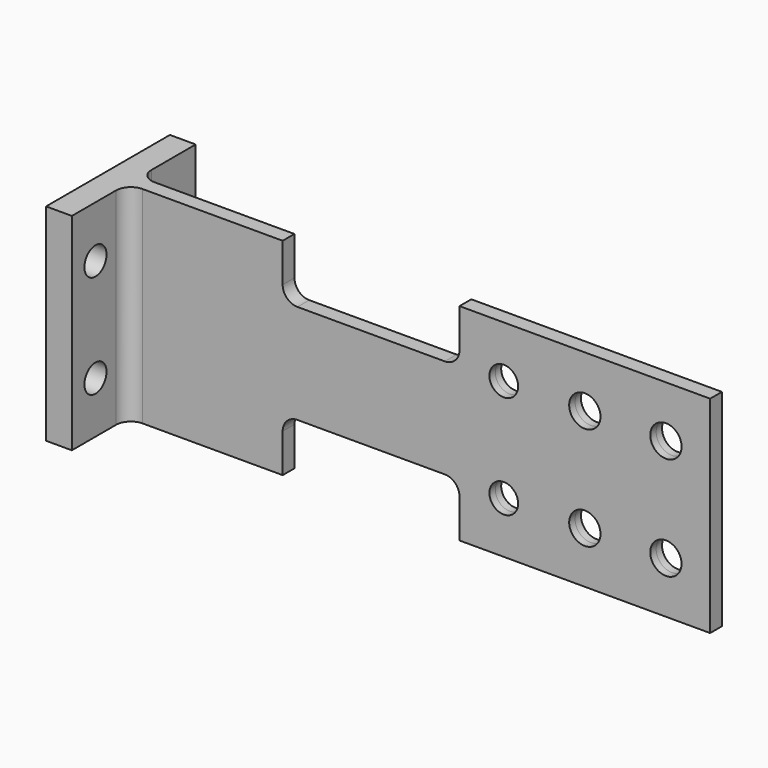
from build123d import *

# Parameters (mm, degrees)
F0_R     = 12.372008059
F0_R_2   = 13.49375
F1_DEPTH = 6.35
F2_DEPTH = 6.35
F3_R     = 11.90625
F4_DEPTH = 22.225
F5_R     = 12.7


with BuildPart() as f1:
    # F0 (on Front) → F1 (new body)
    with BuildSketch(Plane.XZ):
        with BuildLine():
            Line((0, 88.9), (0, 0))
            Line((0, 0), (0, -88.9))
            Line((0, -88.9), (155.575, -88.9))
            Line((155.575, -88.9), (155.575, -55.5625))
            ThreePointArc((155.575, -55.5625), (159.2947438789, -46.5822438789), (168.275, -42.8625))
            Line((168.275, -42.8625), (295.275, -42.8625))
            ThreePointArc((295.275, -42.8625), (304.2552561211, -46.5822438789), (307.975, -55.5625))
            Line((307.975, -55.5625), (307.975, -88.9))
            Line((307.975, -88.9), (523.875, -88.9))
            Line((523.875, -88.9), (523.875, 0))
            Line((523.875, 0), (523.875, 88.9))
            Line((523.875, 88.9), (307.975, 88.9))
            Line((307.975, 88.9), (307.975, 55.5625))
            ThreePointArc((307.975, 55.5625), (304.2552561211, 46.5822438789), (295.275, 42.8625))
            Line((295.275, 42.8625), (168.275, 42.8625))
            ThreePointArc((168.275, 42.8625), (159.2947438789, 46.5822438789), (155.575, 55.5625))
            Line((155.575, 55.5625), (155.575, 88.9))
            Line((155.575, 88.9), (0, 88.9))
        make_face()
        with Locations((346.075, -44.45)):
            Circle(F0_R, mode=Mode.SUBTRACT)
        with Locations((415.925, -44.45)):
            Circle(F0_R_2, mode=Mode.SUBTRACT)
        with Locations((485.775, -44.45)):
            Circle(F0_R_2, mode=Mode.SUBTRACT)
        with Locations((346.075, 44.45)):
            Circle(F0_R, mode=Mode.SUBTRACT)
        with Locations((415.925, 44.45)):
            Circle(F0_R_2, mode=Mode.SUBTRACT)
        with Locations((485.775, 44.45)):
            Circle(F0_R_2, mode=Mode.SUBTRACT)
    extrude(amount=F1_DEPTH)

    # F2 (add): a face of the model
    f2_faces = [f1.faces().sort_by_distance(p)[0] for p in [
        (260.6993813627, 0, 0),
    ]]
    extrude(f2_faces, amount=F2_DEPTH)

    # F3 (on Right) → F4 (join)
    with BuildSketch(Plane.YZ):
        Polygon((66.675, 88.9), (0, 88.9), (-66.675, 88.9), (-66.675, 0), (-66.675, -88.9), (0, -88.9), (66.675, -88.9), (66.675, 0), align=None)
        with Locations((-41.275, -44.45)):
            Circle(F3_R, mode=Mode.SUBTRACT)
        with Locations((41.275, -44.45)):
            Circle(F3_R, mode=Mode.SUBTRACT)
        with Locations((-41.275, 44.45)):
            Circle(F3_R, mode=Mode.SUBTRACT)
        with Locations((41.275, 44.45)):
            Circle(F3_R, mode=Mode.SUBTRACT)
    extrude(amount=F4_DEPTH)

    # F5
    f5_edges = [f1.edges().sort_by_distance(p)[0] for p in [
        (22.225, 6.35, 0),
        (22.225, -6.35, 0),
    ]]
    fillet(f5_edges, radius=F5_R)


solid = f1.part
